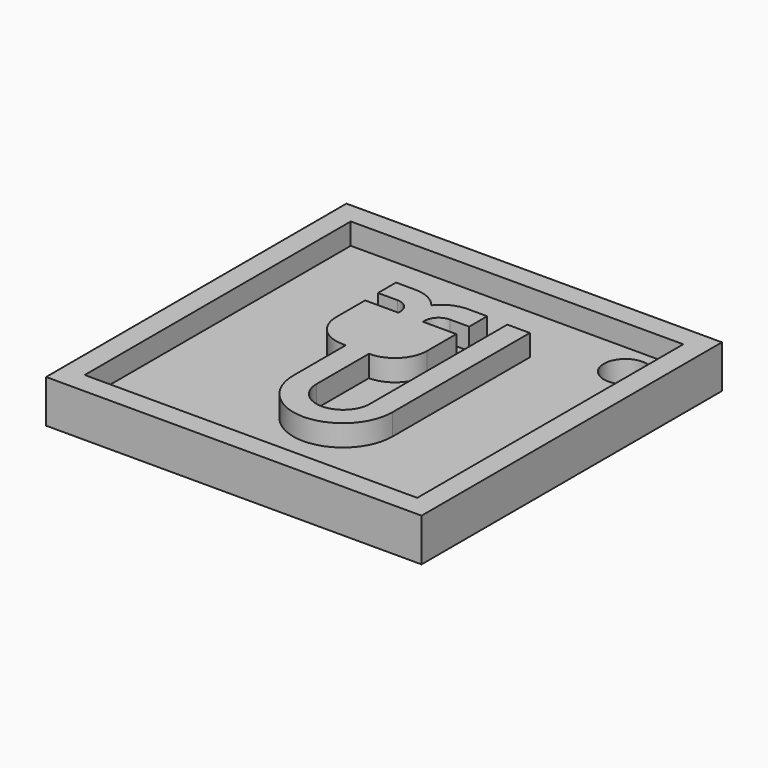
from build123d import *

# Parameters (mm, degrees)
F0_W     = 35
F0_H     = 35
F0_W_2   = 31
F0_H_2   = 31
F1_DEPTH = 4
F0_W_3   = 2.1
F0_H_3   = 16
F0_W_4   = 2.1574016428
F0_H_4   = 6.115043208
F2_DEPTH = 2
F4_D     = 4


with BuildPart() as f1:
    # F0 (on Top) → F1 (new body)
    with BuildSketch(Plane.XY):
        with Locations((5.448846221, -1.0115454492)):
            Rectangle(F0_W, F0_H)
        with Locations((5.448846221, -1.0115454492)):
            Rectangle(F0_W_2, F0_H_2, mode=Mode.SUBTRACT)
    extrude(amount=F1_DEPTH)



with BuildPart() as f1b:
    # F0 (on Top) → F1, piece 2 (new body)
    with BuildSketch(Plane.XY):
        with BuildLine():
            Line((1.8578098388, -0.9776405059), (4.0152114816, -0.9776405059))
            Line((4.0152114816, -0.9776405059), (4.0418037977, -0.9776405059))
            ThreePointArc((4.0418037977, -0.9776405059), (6.1631241413, -0.0989608494), (7.0418037977, 2.0223594941))
            Line((7.0418037977, 2.0223594941), (7.0418037977, 5.4223594941))
            Line((7.0418037977, 5.4223594941), (3.9449525066, 5.4223594941))
            Line((3.9449525066, 5.4223594941), (2.7918037977, 5.4223594941))
            Line((2.7918037977, 5.4223594941), (1.6386550888, 5.4223594941))
            Line((1.6386550888, 5.4223594941), (-1.4581962023, 5.4223594941))
            Line((-1.4581962023, 5.4223594941), (-1.4581962023, 2.0223594941))
            ThreePointArc((-1.4581962023, 2.0223594941), (-0.5795165459, -0.0989608494), (1.5418037977, -0.9776405059))
            Line((1.5418037977, -0.9776405059), (1.8578098388, -0.9776405059))
        make_face()
        with BuildLine():
            ThreePointArc((0.3418037977, 6.9223594941), (1.3332450808, 6.4689196757), (1.6386550888, 5.4223594941))
            Line((1.6386550888, 5.4223594941), (2.7918037977, 5.4223594941))
            Line((2.7918037977, 5.4223594941), (2.7918037977, 7.8223594941))
            ThreePointArc((2.7918037977, 7.8223594941), (1.7058510843, 8.7062477042), (0.3418037977, 9.0223594941))
            Line((0.3418037977, 9.0223594941), (-1.4581962023, 9.0223594941))
            Line((-1.4581962023, 9.0223594941), (-1.4581962023, 6.9223594941))
            Line((-1.4581962023, 6.9223594941), (0.3418037977, 6.9223594941))
        make_face()
        with BuildLine():
            Line((2.7918037977, 5.4223594941), (3.9449525066, 5.4223594941))
            ThreePointArc((3.9449525066, 5.4223594941), (4.2503625146, 6.4689196757), (5.2418037977, 6.9223594941))
            Line((5.2418037977, 6.9223594941), (7.0418037977, 6.9223594941))
            Line((7.0418037977, 6.9223594941), (7.0418037977, 9.0223594941))
            Line((7.0418037977, 9.0223594941), (5.2418037977, 9.0223594941))
            ThreePointArc((5.2418037977, 9.0223594941), (3.8777565111, 8.7062477042), (2.7918037977, 7.8223594941))
            Line((2.7918037977, 7.8223594941), (2.7918037977, 5.4223594941))
        make_face()
        with Locations((10.0591945603, 0.9073162861)):
            Rectangle(F0_W_3, F0_H_3)
        with BuildLine():
            Line((11.1091945603, -7.0926837139), (9.0091945603, -7.0926837139))
            ThreePointArc((9.0091945603, -7.0926837139), (6.512203021, -9.5896752533), (4.0152114816, -7.0926837139))
            Line((4.0152114816, -7.0926837139), (1.8578098388, -7.0926837139))
            ThreePointArc((1.8578098388, -7.0926837139), (6.4835021996, -11.7183760746), (11.1091945603, -7.0926837139))
        make_face()
        with Locations((2.9365106602, -4.0351621099)):
            Rectangle(F0_W_4, F0_H_4)
    extrude(amount=F1_DEPTH)


with BuildPart() as f1_1:
    add(f1.part)

    add(f1b.part)  # F2 merges F1b
    # F0 (on Top) → F2 (join)
    with BuildSketch(Plane.XY):
        with Locations((5.448846221, -1.0115454492)):
            Rectangle(F0_W_2, F0_H_2)
        with BuildLine():
            Line((9.0091945603, -7.0926837139), (9.0091945603, 8.9073162861))
            Line((9.0091945603, 8.9073162861), (11.1091945603, 8.9073162861))
            Line((11.1091945603, 8.9073162861), (11.1091945603, -7.0926837139))
            ThreePointArc((11.1091945603, -7.0926837139), (6.4835021996, -11.7183760746), (1.8578098388, -7.0926837139))
            Line((1.8578098388, -7.0926837139), (1.8578098388, -0.9776405059))
            Line((1.8578098388, -0.9776405059), (1.5418037977, -0.9776405059))
            ThreePointArc((1.5418037977, -0.9776405059), (-0.5795165459, -0.0989608494), (-1.4581962023, 2.0223594941))
            Line((-1.4581962023, 2.0223594941), (-1.4581962023, 5.4223594941))
            Line((-1.4581962023, 5.4223594941), (1.6386550888, 5.4223594941))
            ThreePointArc((1.6386550888, 5.4223594941), (1.3332450808, 6.4689196757), (0.3418037977, 6.9223594941))
            Line((0.3418037977, 6.9223594941), (-1.4581962023, 6.9223594941))
            Line((-1.4581962023, 6.9223594941), (-1.4581962023, 9.0223594941))
            Line((-1.4581962023, 9.0223594941), (0.3418037977, 9.0223594941))
            ThreePointArc((0.3418037977, 9.0223594941), (1.7058510843, 8.7062477042), (2.7918037977, 7.8223594941))
            ThreePointArc((2.7918037977, 7.8223594941), (3.8777565111, 8.7062477042), (5.2418037977, 9.0223594941))
            Line((5.2418037977, 9.0223594941), (7.0418037977, 9.0223594941))
            Line((7.0418037977, 9.0223594941), (7.0418037977, 6.9223594941))
            Line((7.0418037977, 6.9223594941), (5.2418037977, 6.9223594941))
            ThreePointArc((5.2418037977, 6.9223594941), (4.2503625146, 6.4689196757), (3.9449525066, 5.4223594941))
            Line((3.9449525066, 5.4223594941), (7.0418037977, 5.4223594941))
            Line((7.0418037977, 5.4223594941), (7.0418037977, 2.0223594941))
            ThreePointArc((7.0418037977, 2.0223594941), (6.1631241413, -0.0989608494), (4.0418037977, -0.9776405059))
            Line((4.0418037977, -0.9776405059), (4.0152114816, -0.9776405059))
            Line((4.0152114816, -0.9776405059), (4.0152114816, -7.0926837139))
            ThreePointArc((4.0152114816, -7.0926837139), (6.512203021, -9.5896752533), (9.0091945603, -7.0926837139))
        make_face(mode=Mode.SUBTRACT)
    extrude(amount=F2_DEPTH)

    # F4 (through all)
    with Locations(Plane.XY.offset(2)):
        with Locations((17.948846221, 11.4884545508)):
            Hole(F4_D / 2)


solid = f1_1.part
